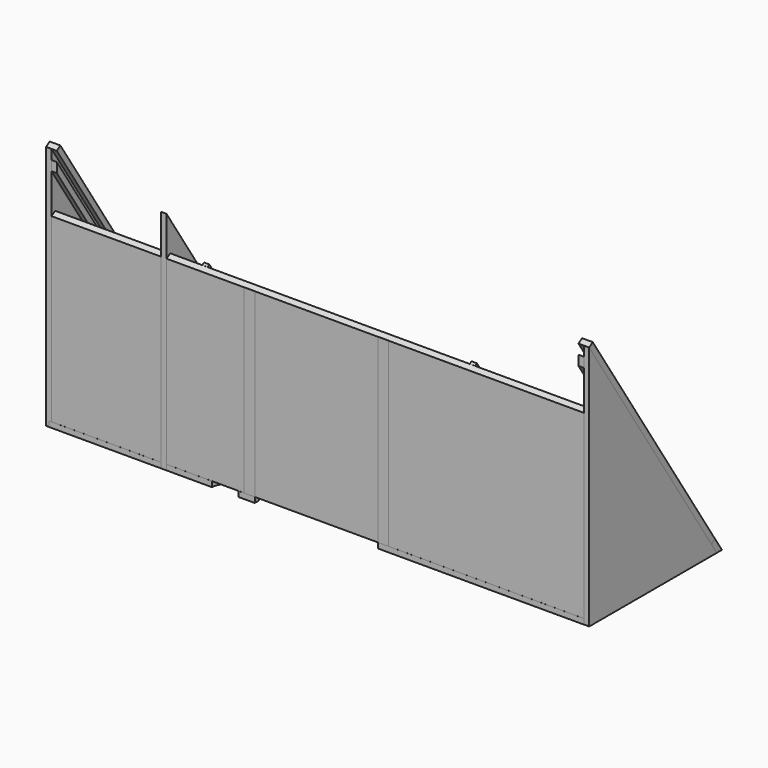
from build123d import *

# Parameters (mm, degrees)
BOX002_W                 = 200
BOX002_H                 = 2
BOX002_DEPTH             = 67.682
BOX013_W                 = 2
BOX013_H                 = 50
BOX013_DEPTH             = 100
BOX014_W                 = 10
BOX014_H                 = 70
BOX014_DEPTH             = 30
BOX012_W                 = 2
BOX012_H                 = 110
BOX012_DEPTH             = 50
BOX012_PLACEMENT_ANGLE   = 123
BOX017_W                 = 10
BOX017_H                 = 10
BOX017_DEPTH             = 20
BOX016_W                 = 2
BOX016_H                 = 110
BOX016_DEPTH             = 2
BOX016_PLACEMENT_ANGLE   = 123
BOX019_W                 = 2
BOX019_H                 = 50
BOX019_DEPTH             = 100
BOX010_W                 = 2
BOX010_H                 = 50
BOX010_DEPTH             = 100
BOX011_W                 = 10
BOX011_H                 = 70
BOX011_DEPTH             = 30
BOX009_W                 = 2
BOX009_H                 = 110
BOX009_DEPTH             = 50
BOX009_PLACEMENT_ANGLE   = 123
BOX035_W                 = 4
BOX035_H                 = 109.5
BOX035_DEPTH             = 2
BOX035_PLACEMENT_ANGLE   = 123
BOX040_W                 = 2
BOX040_H                 = 82.65
BOX040_DEPTH             = 1
BOX040_PLACEMENT_ANGLE   = 123
BOX041_W                 = 2
BOX041_H                 = 82.65
BOX041_DEPTH             = 1
BOX041_PLACEMENT_ANGLE   = 123
CYLINDER_R               = 10
CYLINDER_DEPTH           = 10
CYLINDER_PLACEMENT_ANGLE = 123
BOX_W                    = 200
BOX_H                    = 82
BOX_DEPTH                = 2
BOX_PLACEMENT_ANGLE      = 123
BOX045_W                 = 4
BOX045_H                 = 2
BOX045_DEPTH             = 63.7
BOX046_W                 = 2
BOX046_H                 = 2
BOX046_DEPTH             = 66.7
BOX047_W                 = 4
BOX047_H                 = 2
BOX047_DEPTH             = 69.7
BOX048_W                 = 4
BOX048_H                 = 2
BOX048_DEPTH             = 63.7
BOX049_W                 = 2
BOX049_H                 = 2
BOX049_DEPTH             = 66.7
BOX050_W                 = 4
BOX050_H                 = 2
BOX050_DEPTH             = 69.7
CYLINDER001_R            = 5
CYLINDER001_DEPTH        = 10
BOX051_W                 = 46
BOX051_H                 = 2
BOX051_DEPTH             = 10
BOX043_W                 = 50
BOX043_H                 = 2
BOX043_DEPTH             = 10
BOX001_W                 = 200
BOX001_H                 = 59.65
BOX001_DEPTH             = 2
BOX053_W                 = 10
BOX053_H                 = 10
BOX053_DEPTH             = 20
BOX037_W                 = 2
BOX037_H                 = 110
BOX037_DEPTH             = 2
BOX037_PLACEMENT_ANGLE   = 123
BOX054_W                 = 4
BOX054_H                 = 109.5
BOX054_DEPTH             = 2
BOX054_PLACEMENT_ANGLE   = 123
BOX055_W                 = 205
BOX055_H                 = 10
BOX055_DEPTH             = 10
BOX036_W                 = 203
BOX036_H                 = 6
BOX036_DEPTH             = 2
BOX036_PLACEMENT_ANGLE   = 123
BOX057_W                 = 10
BOX057_H                 = 10
BOX057_DEPTH             = 15
BOX056_W                 = 10
BOX056_H                 = 10
BOX056_DEPTH             = 10
BOX039_W                 = 2
BOX039_H                 = 120
BOX039_DEPTH             = 5
BOX039_PLACEMENT_ANGLE   = 123
BOX031_W                 = 2
BOX031_H                 = 50
BOX031_DEPTH             = 5
BOX030_W                 = 2
BOX030_H                 = 5
BOX030_DEPTH             = 70
BOX029_W                 = 2
BOX029_H                 = 30
BOX029_DEPTH             = 10
BOX029_PLACEMENT_ANGLE   = 123
BOX033_W                 = 2
BOX033_H                 = 65
BOX033_DEPTH             = 10
BOX032_W                 = 2
BOX032_H                 = 15
BOX032_DEPTH             = 95
BOX028_W                 = 2
BOX028_H                 = 110
BOX028_DEPTH             = 15
BOX028_PLACEMENT_ANGLE   = 123


with BuildPart() as obj1:
    # Box002 → Box002 (new body)
    with BuildSketch(Plane(origin=(0, -46.338, 0), x_dir=(1, 0, 0), z_dir=(0, 0, 1))):
        with Locations((100, 1)):
            Rectangle(BOX002_W, BOX002_H)
    extrude(amount=BOX002_DEPTH)


with BuildPart() as cube012:
    # Box013 → Box013 (new body)
    with BuildSketch(Plane(origin=(0, -96.35, -3), x_dir=(1, 0, 0), z_dir=(0, 0, 1))):
        with Locations((1, 25)):
            Rectangle(BOX013_W, BOX013_H)
    extrude(amount=BOX013_DEPTH)


with BuildPart() as cube013:
    # Box014 → Box014 (new body)
    with BuildSketch(Plane(origin=(0, -50, -32), x_dir=(1, 0, 0), z_dir=(0, 0, 1))):
        with Locations((5, 35)):
            Rectangle(BOX014_W, BOX014_H)
    extrude(amount=BOX014_DEPTH)


with BuildPart() as seitenwand_links:
    # Box012 → Box012 (new body)
    with BuildSketch(Plane.XY):
        with Locations((1, 55)):
            Rectangle(BOX012_W, BOX012_H)
    extrude(amount=BOX012_DEPTH)


with BuildPart() as seitenwand_links_1:
    # Box012 placement: moved
    add(seitenwand_links.part.moved(Location((0, 13.3, -2))).rotate(Axis((0, 13.3, -2), (1, 0, 0)), BOX012_PLACEMENT_ANGLE))

    # Cut004: cut Cube013
    add(cube013.part, mode=Mode.SUBTRACT)

    # Cut005: cut Cube012
    add(cube012.part, mode=Mode.SUBTRACT)


with BuildPart() as seitenwand_links_2:
    # Cut005 placement: moved
    add(seitenwand_links_1.part.moved(Location((200, 0, 0))))


with BuildPart() as cube016:
    # Box017 → Box017 (new body)
    with BuildSketch(Plane(origin=(0, -56.35, 80), x_dir=(1, 0, 0), z_dir=(0, 0, 1))):
        with Locations((5, 5)):
            Rectangle(BOX017_W, BOX017_H)
    extrude(amount=BOX017_DEPTH)


with BuildPart() as obj2:
    # Box016 → Box016 (new body)
    with BuildSketch(Plane.XY):
        with Locations((1, 55)):
            Rectangle(BOX016_W, BOX016_H)
    extrude(amount=BOX016_DEPTH)


with BuildPart() as obj2_1:
    # Box016 placement: moved
    add(obj2.part.moved(Location((0, 9.6, 0))).rotate(Axis((0, 9.6, 0), (1, 0, 0)), BOX016_PLACEMENT_ANGLE))

    # Cut: cut Cube016
    add(cube016.part, mode=Mode.SUBTRACT)


with BuildPart() as obj2_2:
    # Cut placement: moved
    add(obj2_1.part.moved(Location((198, 0, 0))))


with BuildPart() as cube018:
    # Box019 → Box019 (new body)
    with BuildSketch(Plane(origin=(0, -96.35, -3), x_dir=(1, 0, 0), z_dir=(0, 0, 1))):
        with Locations((1, 25)):
            Rectangle(BOX019_W, BOX019_H)
    extrude(amount=BOX019_DEPTH)


with BuildPart() as cube009:
    # Box010 → Box010 (new body)
    with BuildSketch(Plane(origin=(0, -96.35, -3), x_dir=(1, 0, 0), z_dir=(0, 0, 1))):
        with Locations((1, 25)):
            Rectangle(BOX010_W, BOX010_H)
    extrude(amount=BOX010_DEPTH)


with BuildPart() as cube010:
    # Box011 → Box011 (new body)
    with BuildSketch(Plane(origin=(0, -50, -32), x_dir=(1, 0, 0), z_dir=(0, 0, 1))):
        with Locations((5, 35)):
            Rectangle(BOX011_W, BOX011_H)
    extrude(amount=BOX011_DEPTH)


with BuildPart() as seitenwand_rechts001:
    # Box009 → Box009 (new body)
    with BuildSketch(Plane.XY):
        with Locations((1, 55)):
            Rectangle(BOX009_W, BOX009_H)
    extrude(amount=BOX009_DEPTH)


with BuildPart() as seitenwand_rechts001_1:
    # Box009 placement: moved
    add(seitenwand_rechts001.part.moved(Location((0, 13.3, -2))).rotate(Axis((0, 13.3, -2), (1, 0, 0)), BOX009_PLACEMENT_ANGLE))

    # Cut002: cut Cube010
    add(cube010.part, mode=Mode.SUBTRACT)

    # Cut003: cut Cube009
    add(cube009.part, mode=Mode.SUBTRACT)


with BuildPart() as seitenwand_rechts001_2:
    # Cut003 placement: moved
    add(seitenwand_rechts001_1.part.moved(Location((-1, 0, 0))))

    # Cut015: cut Cube018
    add(cube018.part, mode=Mode.SUBTRACT)


with BuildPart() as abdeckung_rechts:
    # Box035 → Box035 (new body)
    with BuildSketch(Plane.XY):
        with Locations((2, 54.75)):
            Rectangle(BOX035_W, BOX035_H)
    extrude(amount=BOX035_DEPTH)


with BuildPart() as abdeckung_rechts_1:
    # Box035 placement: moved
    add(abdeckung_rechts.part.moved(Location((-1, 14.95, -0.9))).rotate(Axis((-1, 14.95, -0.9), (1, 0, 0)), BOX035_PLACEMENT_ANGLE))


with BuildPart() as obj3:
    # Box040 → Box040 (new body)
    with BuildSketch(Plane.XY):
        with Locations((1, 41.325)):
            Rectangle(BOX040_W, BOX040_H)
    extrude(amount=BOX040_DEPTH)


with BuildPart() as obj3_1:
    # Box040 placement: moved
    add(obj3.part.moved(Location((156, 1.2, 0))).rotate(Axis((156, 1.2, 0), (1, 0, 0)), BOX040_PLACEMENT_ANGLE))


with BuildPart() as obj4:
    # Box041 → Box041 (new body)
    with BuildSketch(Plane.XY):
        with Locations((1, 41.325)):
            Rectangle(BOX041_W, BOX041_H)
    extrude(amount=BOX041_DEPTH)


with BuildPart() as obj4_1:
    # Box041 placement: moved
    add(obj4.part.moved(Location((56, 1.2, 0))).rotate(Axis((56, 1.2, 0), (1, 0, 0)), BOX041_PLACEMENT_ANGLE))


with BuildPart() as cylinder:
    # Cylinder → Cylinder (new body)
    with BuildSketch(Plane.XY):
        Circle(CYLINDER_R)
    extrude(amount=CYLINDER_DEPTH)


with BuildPart() as cylinder_1:
    # Cylinder placement: moved
    add(cylinder.part.moved(Location((15, -15, 36))).rotate(Axis((15, -15, 36), (1, 0, 0)), CYLINDER_PLACEMENT_ANGLE))


with BuildPart() as auflage001:
    # Box → Box (new body)
    with BuildSketch(Plane.XY):
        with Locations((100, 41)):
            Rectangle(BOX_W, BOX_H)
    extrude(amount=BOX_DEPTH)


with BuildPart() as auflage001_1:
    # Box placement: moved
    add(auflage001.part.rotate(Axis((0, 0, 0), (1, 0, 0)), BOX_PLACEMENT_ANGLE))

    # Cut018: cut Cylinder
    add(cylinder_1.part, mode=Mode.SUBTRACT)


with BuildPart() as cube040:
    # Box045 → Box045 (new body)
    with BuildSketch(Plane(origin=(73, -42.35, -2), x_dir=(1, 0, 0), z_dir=(0, 0, 1))):
        with Locations((2, 1)):
            Rectangle(BOX045_W, BOX045_H)
    extrude(amount=BOX045_DEPTH)


with BuildPart() as cube041:
    # Box046 → Box046 (new body)
    with BuildSketch(Plane(origin=(73, -44.35, -2), x_dir=(1, 0, 0), z_dir=(0, 0, 1))):
        with Locations((1, 1)):
            Rectangle(BOX046_W, BOX046_H)
    extrude(amount=BOX046_DEPTH)


with BuildPart() as cube042:
    # Box047 → Box047 (new body)
    with BuildSketch(Plane(origin=(73, -46.35, -2), x_dir=(1, 0, 0), z_dir=(0, 0, 1))):
        with Locations((2, 1)):
            Rectangle(BOX047_W, BOX047_H)
    extrude(amount=BOX047_DEPTH)


with BuildPart() as cube043:
    # Box048 → Box048 (new body)
    with BuildSketch(Plane(origin=(123, -42.35, -2), x_dir=(1, 0, 0), z_dir=(0, 0, 1))):
        with Locations((2, 1)):
            Rectangle(BOX048_W, BOX048_H)
    extrude(amount=BOX048_DEPTH)


with BuildPart() as cube044:
    # Box049 → Box049 (new body)
    with BuildSketch(Plane(origin=(125, -44.35, -2), x_dir=(1, 0, 0), z_dir=(0, 0, 1))):
        with Locations((1, 1)):
            Rectangle(BOX049_W, BOX049_H)
    extrude(amount=BOX049_DEPTH)


with BuildPart() as cube045:
    # Box050 → Box050 (new body)
    with BuildSketch(Plane(origin=(123, -46.35, -2), x_dir=(1, 0, 0), z_dir=(0, 0, 1))):
        with Locations((2, 1)):
            Rectangle(BOX050_W, BOX050_H)
    extrude(amount=BOX050_DEPTH)


with BuildPart() as cylinder001:
    # Cylinder001 → Cylinder001 (new body)
    with BuildSketch(Plane(origin=(66, -46.35, -5), x_dir=(1, 0, 0), z_dir=(0, 0, 1))):
        Circle(CYLINDER001_R)
    extrude(amount=CYLINDER001_DEPTH)


with BuildPart() as cube046:
    # Box051 → Box051 (new body)
    with BuildSketch(Plane(origin=(77, -46.35, -5), x_dir=(1, 0, 0), z_dir=(0, 0, 1))):
        with Locations((23, 1)):
            Rectangle(BOX051_W, BOX051_H)
    extrude(amount=BOX051_DEPTH)


with BuildPart() as cube038:
    # Box043 → Box043 (new body)
    with BuildSketch(Plane(origin=(75, -44.35, -5), x_dir=(1, 0, 0), z_dir=(0, 0, 1))):
        with Locations((25, 1)):
            Rectangle(BOX043_W, BOX043_H)
    extrude(amount=BOX043_DEPTH)


with BuildPart() as boden002:
    # Box001 → Box001 (new body)
    with BuildSketch(Plane(origin=(0, -46.35, -2), x_dir=(1, 0, 0), z_dir=(0, 0, 1))):
        with Locations((100, 29.825)):
            Rectangle(BOX001_W, BOX001_H)
    extrude(amount=BOX001_DEPTH)

    # Cut019: cut Cube038
    add(cube038.part, mode=Mode.SUBTRACT)

    # Cut020: cut Cube046
    add(cube046.part, mode=Mode.SUBTRACT)

    # Cut021: cut Cylinder001
    add(cylinder001.part, mode=Mode.SUBTRACT)


with BuildPart() as cube:
    # Box053 → Box053 (new body)
    with BuildSketch(Plane(origin=(-5, -56.35, 80), x_dir=(1, 0, 0), z_dir=(0, 0, 1))):
        with Locations((5, 5)):
            Rectangle(BOX053_W, BOX053_H)
    extrude(amount=BOX053_DEPTH)


with BuildPart() as obj5:
    # Box037 → Box037 (new body)
    with BuildSketch(Plane.XY):
        with Locations((1, 55)):
            Rectangle(BOX037_W, BOX037_H)
    extrude(amount=BOX037_DEPTH)


with BuildPart() as obj5_1:
    # Box037 placement: moved
    add(obj5.part.moved(Location((1, 9.6, 0))).rotate(Axis((1, 9.6, 0), (1, 0, 0)), BOX037_PLACEMENT_ANGLE))

    # Cut022: cut Cube
    add(cube.part, mode=Mode.SUBTRACT)


with BuildPart() as abdeckung_links:
    # Box054 → Box054 (new body)
    with BuildSketch(Plane.XY):
        with Locations((2, 54.75)):
            Rectangle(BOX054_W, BOX054_H)
    extrude(amount=BOX054_DEPTH)


with BuildPart() as abdeckung_links_1:
    # Box054 placement: moved
    add(abdeckung_links.part.moved(Location((198, 14.95, -0.9))).rotate(Axis((198, 14.95, -0.9), (1, 0, 0)), BOX054_PLACEMENT_ANGLE))


with BuildPart() as cube047:
    # Box055 → Box055 (new body)
    with BuildSketch(Plane(origin=(-2, 8, -12), x_dir=(1, 0, 0), z_dir=(0, 0, 1))):
        with Locations((102.5, 5)):
            Rectangle(BOX055_W, BOX055_H)
    extrude(amount=BOX055_DEPTH)


with BuildPart() as abdeckung_unten:
    # Box036 → Box036 (new body)
    with BuildSketch(Plane.XY):
        with Locations((101.5, 3)):
            Rectangle(BOX036_W, BOX036_H)
    extrude(amount=BOX036_DEPTH)


with BuildPart() as abdeckung_unten_1:
    # Box036 placement: moved
    add(abdeckung_unten.part.moved(Location((-1, 15.75, -2.1))).rotate(Axis((-1, 15.75, -2.1), (1, 0, 0)), BOX036_PLACEMENT_ANGLE))

    # Cut023: cut Cube047
    add(cube047.part, mode=Mode.SUBTRACT)


with BuildPart() as cube049:
    # Box057 → Box057 (new body)
    with BuildSketch(Plane(origin=(40, -28.73, 44.7), x_dir=(1, 0, 0), z_dir=(0, 0, 1))):
        with Locations((5, 5)):
            Rectangle(BOX057_W, BOX057_H)
    extrude(amount=BOX057_DEPTH)


with BuildPart() as cube048:
    # Box056 → Box056 (new body)
    with BuildSketch(Plane(origin=(40, -12.36, 19.55), x_dir=(1, 0, 0), z_dir=(0, 0, 1))):
        with Locations((5, 5)):
            Rectangle(BOX056_W, BOX056_H)
    extrude(amount=BOX056_DEPTH)


with BuildPart() as cube036:
    # Box039 → Box039 (new body)
    with BuildSketch(Plane.XY):
        with Locations((1, 60)):
            Rectangle(BOX039_W, BOX039_H)
    extrude(amount=BOX039_DEPTH)


with BuildPart() as cube036_1:
    # Box039 placement: moved
    add(cube036.part.moved(Location((-40, 19.65, -10))).rotate(Axis((-40, 19.65, -10), (1, 0, 0)), BOX039_PLACEMENT_ANGLE))


with BuildPart() as cube029:
    # Box031 → Box031 (new body)
    with BuildSketch(Plane(origin=(-40, -46.35, -2), x_dir=(1, 0, 0), z_dir=(0, 0, 1))):
        with Locations((1, 25)):
            Rectangle(BOX031_W, BOX031_H)
    extrude(amount=BOX031_DEPTH)


with BuildPart() as cube028:
    # Box030 → Box030 (new body)
    with BuildSketch(Plane(origin=(-40, -46.35, -2), x_dir=(1, 0, 0), z_dir=(0, 0, 1))):
        with Locations((1, 2.5)):
            Rectangle(BOX030_W, BOX030_H)
    extrude(amount=BOX030_DEPTH)


with BuildPart() as cube027:
    # Box029 → Box029 (new body)
    with BuildSketch(Plane.XY):
        with Locations((1, 15)):
            Rectangle(BOX029_W, BOX029_H)
    extrude(amount=BOX029_DEPTH)


with BuildPart() as cube027_1:
    # Box029 placement: moved
    add(cube027.part.moved(Location((-40, -4, 25))).rotate(Axis((-40, -4, 25), (1, 0, 0)), BOX029_PLACEMENT_ANGLE))


with BuildPart() as cube031:
    # Box033 → Box033 (new body)
    with BuildSketch(Plane(origin=(-40, -46.35, -12), x_dir=(1, 0, 0), z_dir=(0, 0, 1))):
        with Locations((1, 32.5)):
            Rectangle(BOX033_W, BOX033_H)
    extrude(amount=BOX033_DEPTH)


with BuildPart() as cube030:
    # Box032 → Box032 (new body)
    with BuildSketch(Plane(origin=(-40, -61.35, -2), x_dir=(1, 0, 0), z_dir=(0, 0, 1))):
        with Locations((1, 7.5)):
            Rectangle(BOX032_W, BOX032_H)
    extrude(amount=BOX032_DEPTH)


with BuildPart() as obj6:
    # Box028 → Box028 (new body)
    with BuildSketch(Plane.XY):
        with Locations((1, 55)):
            Rectangle(BOX028_W, BOX028_H)
    extrude(amount=BOX028_DEPTH)


with BuildPart() as obj6_1:
    # Box028 placement: moved
    add(obj6.part.moved(Location((-40, 13.3, -2))).rotate(Axis((-40, 13.3, -2), (1, 0, 0)), BOX028_PLACEMENT_ANGLE))

    # Cut013: cut Cube030
    add(cube030.part, mode=Mode.SUBTRACT)

    # Cut014: cut Cube031
    add(cube031.part, mode=Mode.SUBTRACT)

    # Cut016: cut Cube027
    add(cube027_1.part, mode=Mode.SUBTRACT)

    # Fusion: union Cube028
    add(cube028.part)

    # Fusion001: union Cube029
    add(cube029.part)

    # Cut017: cut Cube036
    add(cube036_1.part, mode=Mode.SUBTRACT)


with BuildPart() as obj6_2:
    # Cut017 placement: moved
    add(obj6_1.part.moved(Location((82, 0, 0))))

    # Cut024: cut Cube048
    add(cube048.part, mode=Mode.SUBTRACT)

    # Cut025: cut Cube049
    add(cube049.part, mode=Mode.SUBTRACT)


solid = Compound([obj1.part, seitenwand_links_2.part, obj2_2.part, seitenwand_rechts001_2.part, abdeckung_rechts_1.part, obj3_1.part, obj4_1.part, auflage001_1.part, cube040.part, cube041.part, cube042.part, cube043.part, cube044.part, cube045.part, boden002.part, obj5_1.part, abdeckung_links_1.part, abdeckung_unten_1.part, obj6_2.part])
